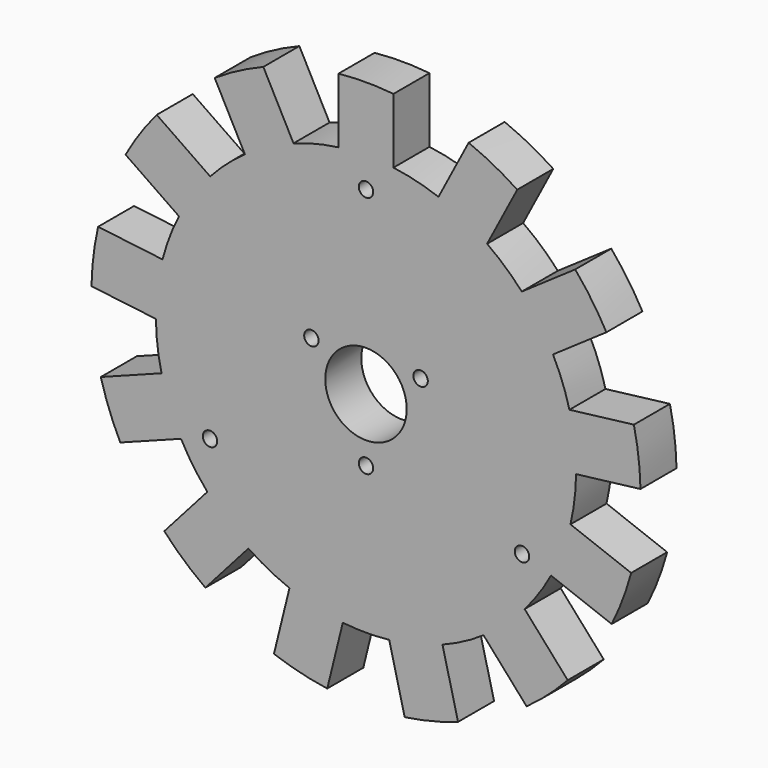
from build123d import *

# Parameters (mm, degrees)
F0_R     = 4
F0_R_2   = 22.606
F1_DEPTH = 25


with BuildPart() as f1:
    # F0 (on Front) → F1 (new body)
    with BuildSketch(Plane.XZ):
        with BuildLine():
            Line((-15.24, 151.636085), (-15.24, 115.606561))
            ThreePointArc((-15.24, 115.606561), (-27.905822, 113.218371), (-40.230698, 109.446907))
            Line((-40.230698, 109.446907), (-56.974453, 141.349467))
            ThreePointArc((-56.974453, 141.349467), (-70.823811, 134.943498), (-83.963152, 127.184704))
            Line((-83.963152, 127.184704), (-67.219398, 95.282145))
            ThreePointArc((-67.219398, 95.282145), (-77.324579, 87.281407), (-86.485028, 78.214286))
            Line((-86.485028, 78.214286), (-116.136745, 98.681389))
            ThreePointArc((-116.136745, 98.681389), (-125.422741, 86.573067), (-133.451359, 73.59684))
            Line((-133.451359, 73.59684), (-103.799641, 53.129738))
            ThreePointArc((-103.799641, 53.129738), (-109.029207, 41.349324), (-112.92668, 29.063714))
            Line((-112.92668, 29.063714), (-148.693509, 33.406594))
            ThreePointArc((-148.693509, 33.406594), (-151.288832, 18.36979), (-152.367467, 3.148827))
            Line((-152.367467, 3.148827), (-116.600638, -1.194052))
            ThreePointArc((-116.600638, -1.194052), (-115.756557, -14.055391), (-113.498191, -26.745004))
            Line((-113.498191, -26.745004), (-147.186381, -39.521249))
            ThreePointArc((-147.186381, -39.521249), (-142.496475, -54.041785), (-136.378024, -68.020544))
            Line((-136.378024, -68.020544), (-102.689834, -55.244299))
            ThreePointArc((-102.689834, -55.244299), (-95.965475, -66.240185), (-88.068634, -76.426764))
            Line((-88.068634, -76.426764), (-111.960628, -103.39525))
            ThreePointArc((-111.960628, -103.39525), (-101.059893, -114.073038), (-89.14602, -123.607229))
            Line((-89.14602, -123.607229), (-65.254026, -96.638743))
            ThreePointArc((-65.254026, -96.638743), (-54.189859, -103.250151), (-42.463614, -108.600074))
            Line((-42.463614, -108.600074), (-51.086044, -143.582646))
            ThreePointArc((-51.086044, -143.582646), (-36.471707, -147.971533), (-21.491737, -150.876987))
            Line((-21.491737, -150.876987), (-12.869308, -115.894415))
            ThreePointArc((-12.869308, -115.894415), (0, -116.606752), (12.869308, -115.894415))
            Line((12.869308, -115.894415), (21.491737, -150.876987))
            ThreePointArc((21.491737, -150.876987), (36.471707, -147.971533), (51.086044, -143.582646))
            Line((51.086044, -143.582646), (42.463614, -108.600074))
            ThreePointArc((42.463614, -108.600074), (54.189859, -103.250151), (65.254026, -96.638743))
            Line((65.254026, -96.638743), (89.14602, -123.607229))
            ThreePointArc((89.14602, -123.607229), (101.059893, -114.073038), (111.960628, -103.39525))
            Line((111.960628, -103.39525), (88.068634, -76.426764))
            ThreePointArc((88.068634, -76.426764), (95.965475, -66.240185), (102.689834, -55.244299))
            Line((102.689834, -55.244299), (136.378024, -68.020544))
            ThreePointArc((136.378024, -68.020544), (142.496475, -54.041785), (147.186381, -39.521249))
            Line((147.186381, -39.521249), (113.498191, -26.745004))
            ThreePointArc((113.498191, -26.745004), (115.756557, -14.055391), (116.600638, -1.194052))
            Line((116.600638, -1.194052), (152.367467, 3.148827))
            ThreePointArc((152.367467, 3.148827), (151.288832, 18.36979), (148.693509, 33.406594))
            Line((148.693509, 33.406594), (112.92668, 29.063714))
            ThreePointArc((112.92668, 29.063714), (109.029207, 41.349324), (103.799641, 53.129738))
            Line((103.799641, 53.129738), (133.451359, 73.59684))
            ThreePointArc((133.451359, 73.59684), (125.422741, 86.573067), (116.136745, 98.681389))
            Line((116.136745, 98.681389), (86.485028, 78.214286))
            ThreePointArc((86.485028, 78.214286), (77.324579, 87.281407), (67.219398, 95.282145))
            Line((67.219398, 95.282145), (83.963152, 127.184704))
            ThreePointArc((83.963152, 127.184704), (70.823811, 134.943498), (56.974453, 141.349467))
            Line((56.974453, 141.349467), (40.230698, 109.446907))
            ThreePointArc((40.230698, 109.446907), (27.905822, 113.218371), (15.24, 115.606561))
            Line((15.24, 115.606561), (15.24, 151.636085))
            ThreePointArc((15.24, 151.636085), (0, 152.4), (-15.24, 151.636085))
        make_face()
        with Locations((-86.60254, -50)):
            Circle(F0_R, mode=Mode.SUBTRACT)
        with Locations((0, -35)):
            Circle(F0_R, mode=Mode.SUBTRACT)
        Circle(F0_R_2, mode=Mode.SUBTRACT)
        with Locations((86.60254, -50)):
            Circle(F0_R, mode=Mode.SUBTRACT)
        with Locations((-30.310889, 17.5)):
            Circle(F0_R, mode=Mode.SUBTRACT)
        with Locations((30.310889, 17.5)):
            Circle(F0_R, mode=Mode.SUBTRACT)
        with Locations((0, 100)):
            Circle(F0_R, mode=Mode.SUBTRACT)
    extrude(amount=F1_DEPTH)


solid = f1.part
